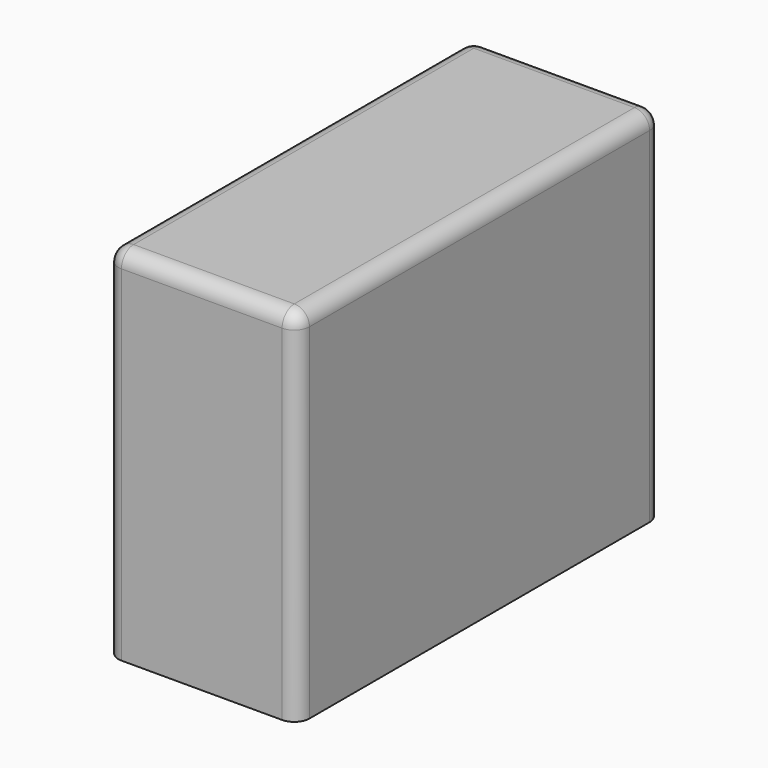
from build123d import *

# Parameters (mm, degrees)
F0_W     = 62.900536
F0_H     = 118.576154
F1_DEPTH = 150
F2_R     = 5


with BuildPart() as f1:
    # F0 (on Front) → F1 (new body)
    with BuildSketch(Plane.XZ):
        Rectangle(F0_W, F0_H)
    extrude(amount=F1_DEPTH)

    # F2
    f2_edges = [f1.edges().sort_by_distance(p)[0] for p in [
        (0, -150, 59.288077),
        (-31.450268, -150, 0),
        (31.450268, -150, 0),
        (-31.450268, -75, 59.288077),
        (31.450268, -75, 59.288077),
        (0, 0, 59.288077),
        (-31.450268, 0, 0),
        (31.450268, 0, 0),
    ]]
    fillet(f2_edges, radius=F2_R)


solid = f1.part
